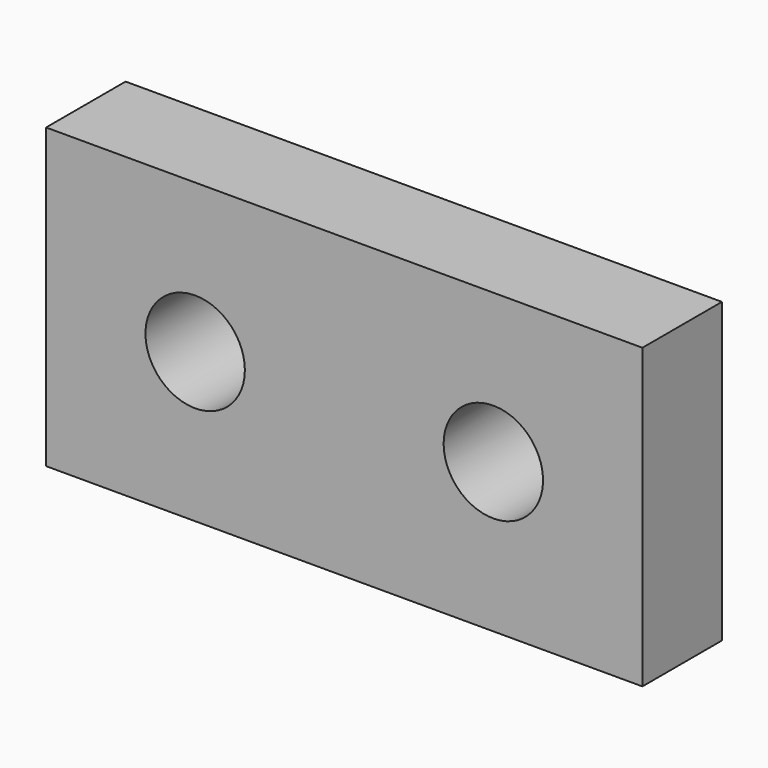
from build123d import *

# Parameters (mm, degrees)
F0_W     = 152.4
F0_H     = 76.2
F0_R     = 12.7
F2_DEPTH = 25.4
F1_W     = 12.7
F1_H     = 6.35
F3_DEPTH = 70.358


with BuildPart() as f2:
    # F0 (on Front) → F2 (new body)
    with BuildSketch(Plane.XZ):
        Rectangle(F0_W, F0_H)
        with Locations((-38.1, 0)):
            Circle(F0_R, mode=Mode.SUBTRACT)
        with BuildLine():
            ThreePointArc((50.8, 0), (38.1, -12.7), (25.4, 0))
            ThreePointArc((25.4, 0), (38.1, 12.7), (50.8, 0))
        make_face(mode=Mode.SUBTRACT)
    extrude(amount=F2_DEPTH)

    # F1 (on Top) → F3 (cut)
    with BuildSketch(Plane.XY):
        with Locations((-6.35, -12.7)):
            Rectangle(F1_W, F1_H)
    extrude(amount=-F3_DEPTH, mode=Mode.SUBTRACT)


solid = f2.part
